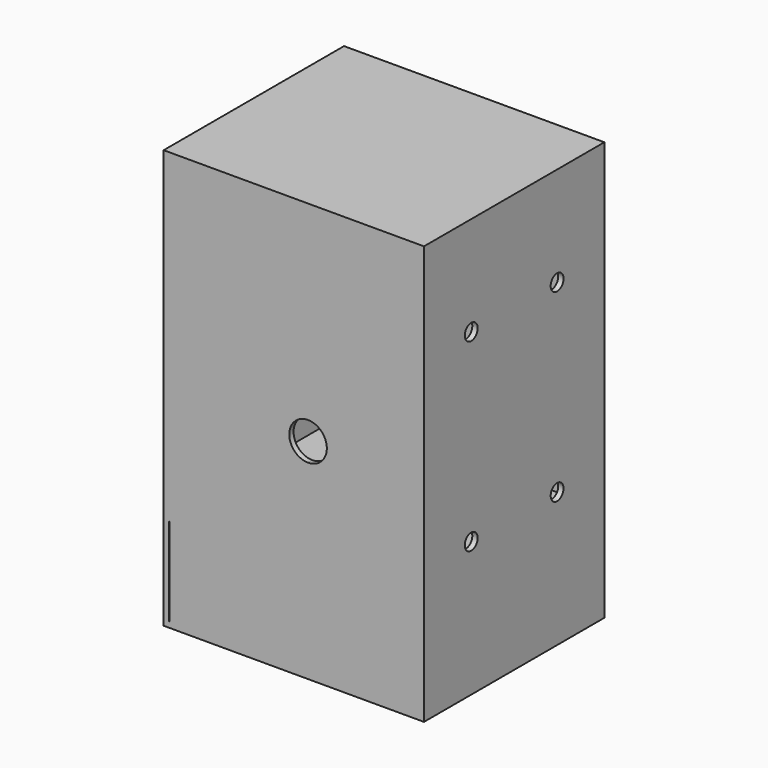
from build123d import *

# Parameters (mm, degrees)
F0_W      = 232.5
F0_H      = 293
F1_DEPTH  = 200
F2_W      = 242.5
F2_H      = 5
F3_DEPTH  = 303
F5_DEPTH  = 25
F7_DEPTH  = 25
F9_DEPTH  = 210.001
F11_DEPTH = 210
F12_W     = 5
F12_H     = 82
F13_DEPTH = 232


with BuildPart() as f1:
    # F0 (on Front) → F1 (new body)
    with BuildSketch(Plane.XZ):
        Polygon((-92.2009944916, 239.5714490414), (-92.2009944916, 234.5714490414), (-92.2009944916, -63.4285509586), (150.2990055084, -63.4285509586), (150.2990055084, 239.5714490414), align=None)
        with Locations((29.0490055084, 88.0714490414)):
            Rectangle(F0_W, F0_H, mode=Mode.SUBTRACT)
    extrude(amount=F1_DEPTH)

    # F4 (on face) → F5 (cut)
    with BuildSketch(Plane.YZ.offset(150.2990055084)):
        with BuildLine():
            ThreePointArc((-42.5, 147.0714490414), (-44.6966991411, 152.3747499003), (-50, 154.5714490414))
            Line((-50, 154.5714490414), (-50, 147.0714490414))
            Line((-50, 147.0714490414), (-50, 139.5714490414))
            ThreePointArc((-50, 139.5714490414), (-44.6966991411, 141.7681481825), (-42.5, 147.0714490414))
        make_face()
        with BuildLine():
            ThreePointArc((-42.5, -24.9285509586), (-44.6966991411, -19.6252500997), (-50, -17.4285509586))
            Line((-50, -17.4285509586), (-50, -24.9285509586))
            Line((-50, -24.9285509586), (-50, -32.4285509586))
            ThreePointArc((-50, -32.4285509586), (-44.6966991411, -30.2318518175), (-42.5, -24.9285509586))
        make_face()
        with BuildLine():
            Line((-50, -24.9285509586), (-50, -17.4285509586))
            ThreePointArc((-50, -17.4285509586), (-57.5, -24.9285509586), (-50, -32.4285509586))
            Line((-50, -32.4285509586), (-50, -24.9285509586))
        make_face()
        with BuildLine():
            Line((-50, 147.0714490414), (-50, 154.5714490414))
            ThreePointArc((-50, 154.5714490414), (-57.5, 147.0714490414), (-50, 139.5714490414))
            Line((-50, 139.5714490414), (-50, 147.0714490414))
        make_face()
        with BuildLine():
            ThreePointArc((-142.5, 147.0714490414), (-144.6966991411, 152.3747499003), (-150, 154.5714490414))
            Line((-150, 154.5714490414), (-150, 147.0714490414))
            Line((-150, 147.0714490414), (-150, 139.5714490414))
            ThreePointArc((-150, 139.5714490414), (-144.6966991411, 141.7681481825), (-142.5, 147.0714490414))
        make_face()
        with BuildLine():
            ThreePointArc((-142.5, -24.9285509586), (-144.6966991411, -19.6252500997), (-150, -17.4285509586))
            Line((-150, -17.4285509586), (-150, -24.9285509586))
            Line((-150, -24.9285509586), (-150, -32.4285509586))
            ThreePointArc((-150, -32.4285509586), (-144.6966991411, -30.2318518175), (-142.5, -24.9285509586))
        make_face()
        with BuildLine():
            Line((-150, -24.9285509586), (-150, -17.4285509586))
            ThreePointArc((-150, -17.4285509586), (-157.5, -24.9285509586), (-150, -32.4285509586))
            Line((-150, -32.4285509586), (-150, -24.9285509586))
        make_face()
        with BuildLine():
            Line((-150, 147.0714490414), (-150, 154.5714490414))
            ThreePointArc((-150, 154.5714490414), (-157.5, 147.0714490414), (-150, 139.5714490414))
            Line((-150, 139.5714490414), (-150, 147.0714490414))
        make_face()
    extrude(amount=-F5_DEPTH, mode=Mode.SUBTRACT)

    # F6 (on face) → F7 (cut)
    with BuildSketch(Plane(origin=(0, 0, -63.4285509586), x_dir=(1, 0, 0), z_dir=(0, 0, -1))):
        with BuildLine():
            ThreePointArc((105.7990055084, 150), (113.2990055084, 142.5), (120.7990055084, 150))
            Line((120.7990055084, 150), (113.2990055084, 150))
            Line((113.2990055084, 150), (105.7990055084, 150))
        make_face()
        with BuildLine():
            Line((113.2990055084, 150), (120.7990055084, 150))
            ThreePointArc((120.7990055084, 150), (113.2990055084, 157.5), (105.7990055084, 150))
            Line((105.7990055084, 150), (113.2990055084, 150))
        make_face()
        with BuildLine():
            ThreePointArc((120.7990055084, 50), (113.2990055084, 57.5), (105.7990055084, 50))
            Line((105.7990055084, 50), (113.2990055084, 50))
            Line((113.2990055084, 50), (120.7990055084, 50))
        make_face()
        with BuildLine():
            Line((113.2990055084, 50), (105.7990055084, 50))
            ThreePointArc((105.7990055084, 50), (113.2990055084, 42.5), (120.7990055084, 50))
            Line((120.7990055084, 50), (113.2990055084, 50))
        make_face()
        with BuildLine():
            ThreePointArc((-19.2009944916, 50), (-21.3976936327, 55.3033008589), (-26.7009944916, 57.5))
            Line((-26.7009944916, 57.5), (-26.7009944916, 50))
            Line((-26.7009944916, 50), (-19.2009944916, 50))
        make_face()
        with BuildLine():
            Line((-26.7009944916, 50), (-26.7009944916, 57.5))
            ThreePointArc((-26.7009944916, 57.5), (-32.0042953505, 55.3033008589), (-34.2009944916, 50))
            Line((-34.2009944916, 50), (-26.7009944916, 50))
        make_face()
        with BuildLine():
            ThreePointArc((-26.7009944916, 142.5), (-21.3976936327, 144.6966991411), (-19.2009944916, 150))
            Line((-19.2009944916, 150), (-26.7009944916, 150))
            Line((-26.7009944916, 150), (-26.7009944916, 142.5))
        make_face()
        with BuildLine():
            Line((-26.7009944916, 150), (-19.2009944916, 150))
            ThreePointArc((-19.2009944916, 150), (-26.7009944916, 157.5), (-34.2009944916, 150))
            Line((-34.2009944916, 150), (-26.7009944916, 150))
        make_face()
        with BuildLine():
            Line((-26.7009944916, 142.5), (-26.7009944916, 150))
            Line((-26.7009944916, 150), (-34.2009944916, 150))
            ThreePointArc((-34.2009944916, 150), (-32.0042953505, 144.6966991411), (-26.7009944916, 142.5))
        make_face()
        with BuildLine():
            Line((-19.2009944916, 50), (-26.7009944916, 50))
            Line((-26.7009944916, 50), (-34.2009944916, 50))
            ThreePointArc((-34.2009944916, 50), (-26.7009944916, 42.5), (-19.2009944916, 50))
        make_face()
    extrude(amount=-F7_DEPTH, mode=Mode.SUBTRACT)



with BuildPart() as f3:
    # F2 (on face) → F3 (new body)
    with BuildSketch(Plane(origin=(0, 0, -63.4285509586), x_dir=(1, 0, 0), z_dir=(0, 0, -1))):
        with Locations((29.0490055084, 202.5)):
            Rectangle(F2_W, F2_H)
    extrude(amount=-F3_DEPTH)

    # F8 (on face) → F9 (cut, through all)
    with BuildSketch(Plane.XZ.offset(205)):
        with BuildLine():
            ThreePointArc((42.2990055084, 27.0714490414), (54.6733741792, 32.1970803706), (59.7990055084, 44.5714490414))
            ThreePointArc((59.7990055084, 44.5714490414), (29.9246368377, 56.9458177121), (42.2990055084, 27.0714490414))
        make_face()
    extrude(amount=-F9_DEPTH, mode=Mode.SUBTRACT)


with BuildPart() as f3b:
    # F2 (on face) → F3, piece 2 (new body)
    with BuildSketch(Plane(origin=(0, 0, -63.4285509586), x_dir=(1, 0, 0), z_dir=(0, 0, -1))):
        with Locations((29.0490055084, -2.5)):
            Rectangle(F2_W, F2_H)
    extrude(amount=-F3_DEPTH)


with BuildPart() as f1_1:
    add(f1.part)

    add(f3.part)  # F11 merges F3

    add(f3b.part)  # F11 merges F3b
    # F10 (on face) → F11 (join)
    with BuildSketch(Plane.XZ.offset(205)):
        Polygon((145.2990055084, -145.4285509586), (42.2990055084, -145.4285509586), (42.2990055084, -150.4285509586), (150.2990055084, -150.4285509586), (150.2990055084, -63.4285509586), (145.2990055084, -63.4285509586), align=None)
        Polygon((42.2990055084, -150.4285509586), (42.2990055084, -145.4285509586), (-87.2009944916, -145.4285509586), (-87.2009944916, -63.4285509586), (-92.2009944916, -63.4285509586), (-92.2009944916, -150.4285509586), align=None)
    extrude(amount=-F11_DEPTH)

    # F12 (on face) → F13 (join)
    with BuildSketch(Plane(origin=(145.2990055084, 0, 0), x_dir=(0, -1, 0), z_dir=(-1, 0, 0))):
        with Locations((-2.5, -104.4285509586)):
            Rectangle(F12_W, F12_H)
        with Locations((202.5, -104.4285509586)):
            Rectangle(F12_W, F12_H)
    extrude(amount=F13_DEPTH)


solid = f1_1.part
